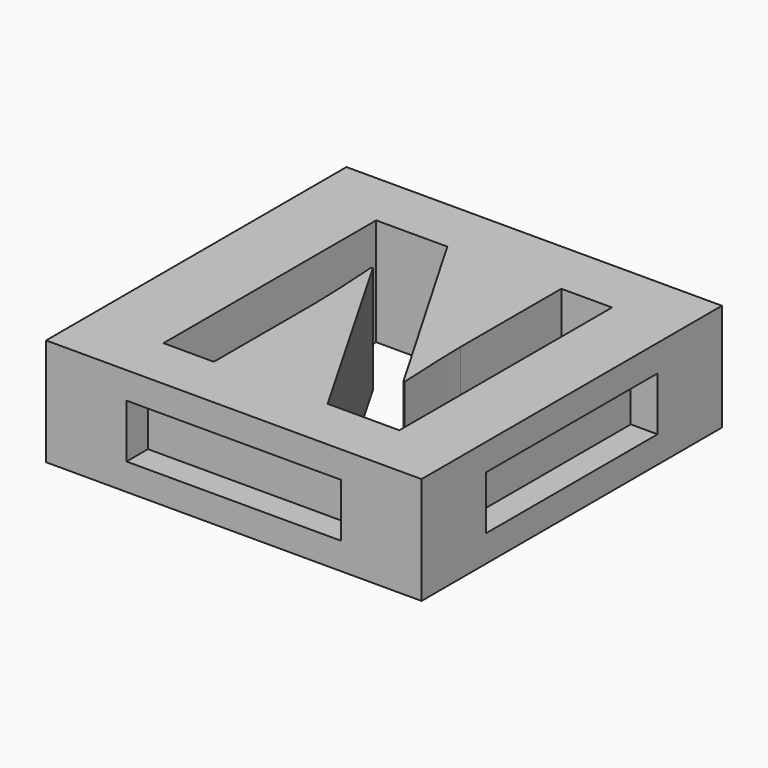
from build123d import *

# Parameters (mm, degrees)
F0_W     = 35.56
F0_H     = 35.56
F1_DEPTH = 5.08
F2_W     = 19.812
F2_H     = 4.572
F3_DEPTH = 2.54
F4_W     = 19.812
F4_H     = 4.572
F5_DEPTH = 2.54
F6_W     = 20.32
F6_H     = 5.08
F7_DEPTH = 2.54
F8_W     = 20.32
F8_H     = 5.08
F9_DEPTH = 2.54


with BuildPart() as f1:
    # F0 (on Top) → F1 (new body, symmetric)
    with BuildSketch(Plane.XY):
        Rectangle(F0_W, F0_H)
        with BuildLine():
            Line((11.6113498264, 12.4850260417), (11.6113498264, -12.7))
            Line((11.6113498264, -12.7), (4.8258897569, -12.7))
            Line((4.8258897569, -12.7), (-6.1322699653, 6.35))
            Line((-6.1322699653, 6.35), (-6.2866102431, 6.35))
            add(Edge.make_bspline(
                [(-6.2866102431, 6.35), (-5.9558810764, 1.3063802083), (-5.9558810764, -0.8488715278)],
                knots=[0, 0, 0, 1, 1, 1], degree=2))
            Line((-5.9558810764, -0.8488715278), (-5.9558810764, -12.7))
            Line((-5.9558810764, -12.7), (-10.7294053819, -12.7))
            Line((-10.7294053819, -12.7), (-10.7294053819, 12.4850260417))
            Line((-10.7294053819, 12.4850260417), (-3.9935546875, 12.4850260417))
            Line((-3.9935546875, 12.4850260417), (6.9425564236, -6.3775607639))
            Line((6.9425564236, -6.3775607639), (7.0638237847, -6.3775607639))
            add(Edge.make_bspline(
                [(7.0638237847, -6.3775607639), (6.8047526042, -1.4662326389), (6.8047526042, 0.5622395833)],
                knots=[0, 0, 0, 1, 1, 1], degree=2))
            Line((6.8047526042, 0.5622395833), (6.8047526042, 12.4850260417))
            Line((6.8047526042, 12.4850260417), (11.6113498264, 12.4850260417))
        make_face(mode=Mode.SUBTRACT)
    extrude(amount=F1_DEPTH, both=True)

    # F2 (on face) → F3 (join)
    with BuildSketch(Plane(origin=(0, 17.78, 0), x_dir=(-1, 0, 0), z_dir=(0, 1, 0))):
        Rectangle(F2_W, F2_H)
    extrude(amount=F3_DEPTH)

    # F4 (on face) → F5 (join)
    with BuildSketch(Plane(origin=(-17.78, 0, 0), x_dir=(0, -1, 0), z_dir=(-1, 0, 0))):
        Rectangle(F4_W, F4_H)
    extrude(amount=F5_DEPTH)

    # F6 (on face) → F7 (cut)
    with BuildSketch(Plane.XZ.offset(17.78)):
        Rectangle(F6_W, F6_H)
    extrude(amount=-F7_DEPTH, mode=Mode.SUBTRACT)

    # F8 (on face) → F9 (cut)
    with BuildSketch(Plane.YZ.offset(17.78)):
        Rectangle(F8_W, F8_H)
    extrude(amount=-F9_DEPTH, mode=Mode.SUBTRACT)


solid = f1.part
